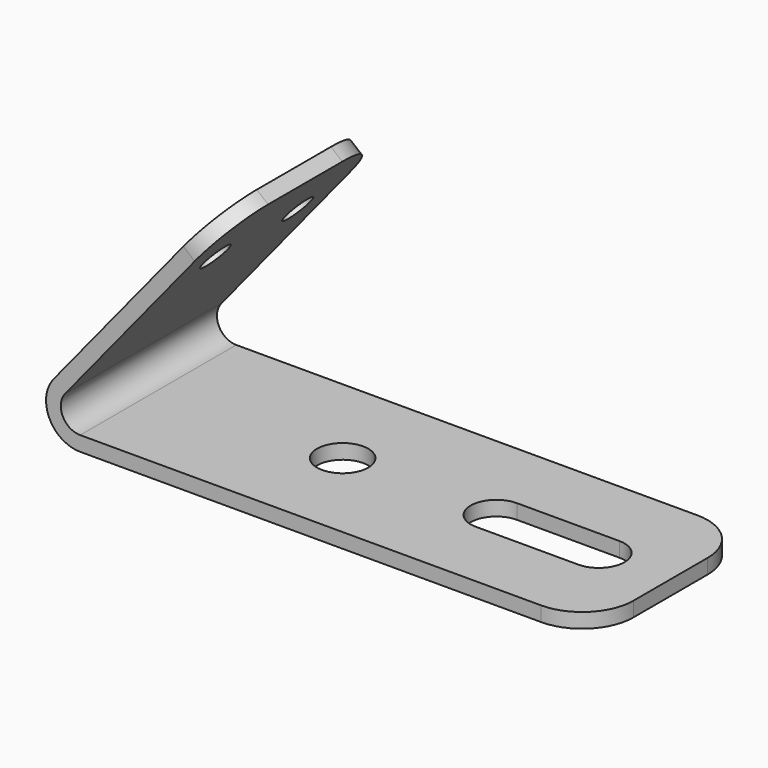
from build123d import *

# Parameters (mm, degrees)
F1_DEPTH = 483.87
F2_R     = 127
F3_R     = 38.1
F4_DEPTH = 99.06
F5_R     = 63.5
F6_DEPTH = 360.68


with BuildPart() as f1:
    # F0 (on Front) → F1 (new body)
    with BuildSketch(Plane.XZ):
        with BuildLine():
            Line((514.1757349964, 629.7824745688), (112.5849840774, 137.8984752597))
            ThreePointArc((112.5849840774, 137.8984752597), (101.7025756268, 48.26), (178.0206957594, 0))
            Line((178.0206957594, 0), (1448.0206957594, 0))
            Line((1448.0206957594, 0), (1448.0206957594, 36.4776443297))
            Line((1448.0206957594, 36.4776443297), (178.0206957594, 36.4776443297))
            ThreePointArc((178.0206957594, 36.4776443297), (134.6581275023, 63.8980988751), (140.8413141219, 114.8290507272))
            Line((140.8413141219, 114.8290507272), (542.4320650409, 606.7130500363))
            Line((542.4320650409, 606.7130500363), (514.1757349964, 629.7824745688))
        make_face()
    extrude(amount=F1_DEPTH)

    # F2
    f2_edges = [f1.edges().sort_by_distance(p)[0] for p in [
        (1448.020696, -483.87, 18.238822),
        (1448.020696, 0, 18.238822),
        (528.3039, -483.87, 618.247762),
        (528.3039, 0, 618.247762),
    ]]
    fillet(f2_edges, radius=F2_R)

    # F3 (on face) → F4 (cut)
    with BuildSketch(Plane(origin=(0, 0, 0), x_dir=(0, -1, 0), z_dir=(-0.7746204714, 0, 0.6324263794))):
        with Locations((114.3, 622.5206957594)):
            Circle(F3_R)
        with Locations((369.57, 622.5206957594)):
            Circle(F3_R)
    extrude(amount=-F4_DEPTH, mode=Mode.SUBTRACT)

    # F5 (on face) → F6 (cut)
    with BuildSketch(Plane.XY.offset(36.4776443297)):
        with Locations((635.2206957594, -241.935)):
            Circle(F5_R)
        with BuildLine():
            ThreePointArc((1270.2206957594, -305.435), (1333.7206957594, -241.935), (1270.2206957594, -178.435))
            Line((1270.2206957594, -178.435), (1016.2206957594, -178.435))
            ThreePointArc((1016.2206957594, -178.435), (952.7206957594, -241.935), (1016.2206957594, -305.435))
            Line((1016.2206957594, -305.435), (1270.2206957594, -305.435))
        make_face()
    extrude(amount=-F6_DEPTH, mode=Mode.SUBTRACT)


solid = f1.part
